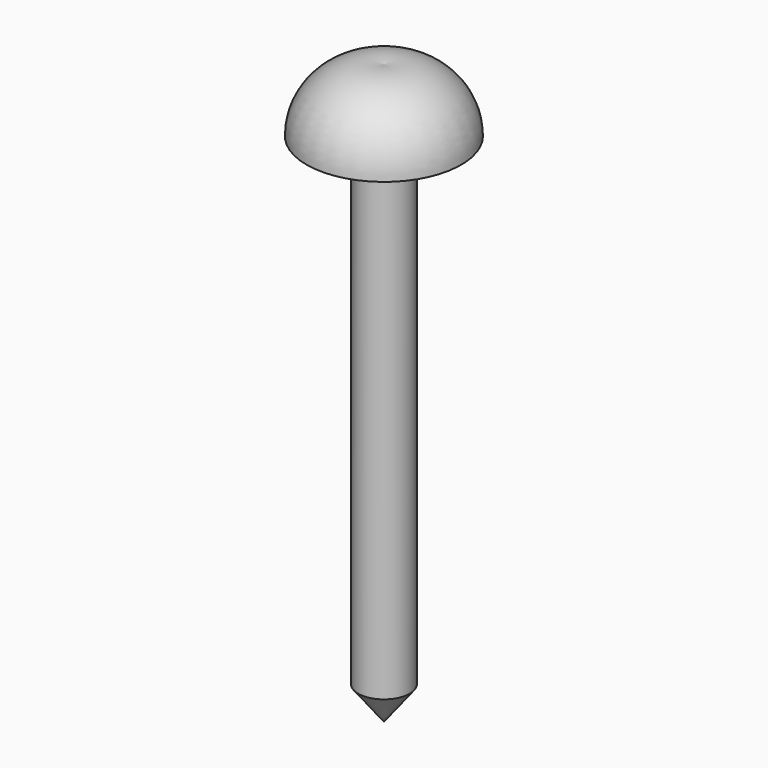
from build123d import *


with BuildPart() as f1:
    # F0 (on Front) → F1 (revolve)
    with BuildSketch(Plane.XZ):
        with BuildLine():
            Line((-5, 0), (0, 0))
            Line((0, 0), (0, 12.247449))
            ThreePointArc((0, 12.247449), (-10.405694, 9.682458), (-15, 0))
            Line((-15, 0), (-5, 0))
        make_face()
        Polygon((0, -100), (0, 0), (-5, 0), (-5, -93.552925), align=None)
    revolve(axis=Axis((0, 0, -50), (0, 0, -1)))


solid = f1.part
